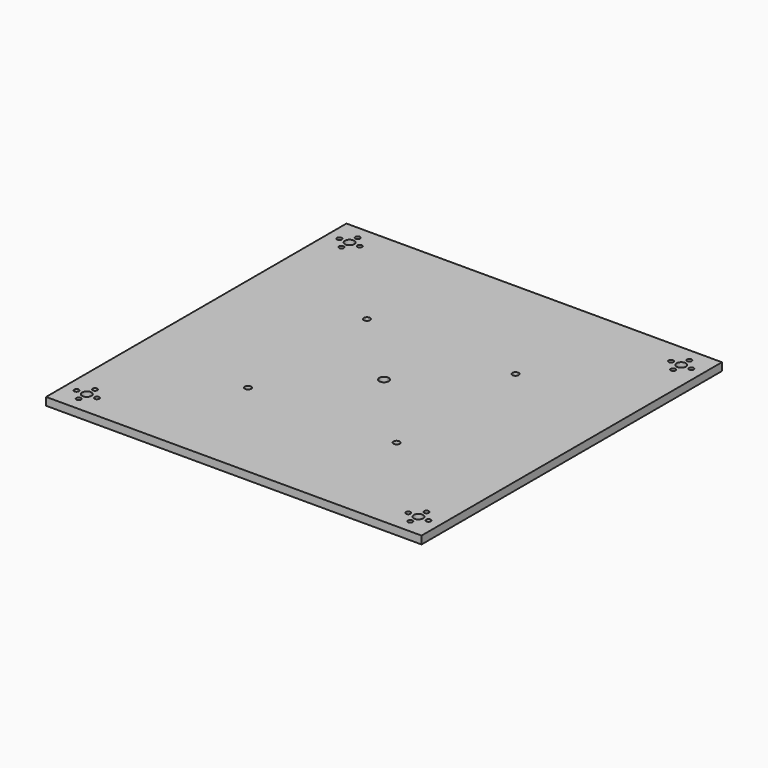
from build123d import *

# Parameters (mm, degrees)
F0_R     = 2.54
F0_R_2   = 1.905
F0_R_3   = 3.81
F1_DEPTH = 6.35


with BuildPart() as f1:
    # F0 (on Top) → F1 (new body)
    with BuildSketch(Plane.XY):
        with BuildLine():
            Line((35.56, 0), (0, 0))
            Line((0, 0), (0, -152.4))
            Line((0, -152.4), (148.59, -152.4))
            ThreePointArc((148.59, -152.4), (149.7059231637, -149.7059231637), (152.4, -148.59))
            Line((152.4, -148.59), (152.4, 0))
            Line((152.4, 0), (41.91, 0))
            Line((41.91, 0), (38.735, 0))
            Line((38.735, 0), (35.56, 0))
        make_face()
        with Locations((92.075, -94.2975)):
            Circle(F0_R, mode=Mode.SUBTRACT)
        with Locations((17.78, -27.305)):
            Circle(F0_R_2, mode=Mode.SUBTRACT)
        with Locations((9.525, -19.05)):
            Circle(F0_R_2, mode=Mode.SUBTRACT)
        with Locations((17.78, -19.05)):
            Circle(F0_R_3, mode=Mode.SUBTRACT)
        with Locations((17.78, -10.795)):
            Circle(F0_R_2, mode=Mode.SUBTRACT)
        with Locations((26.035, -19.05)):
            Circle(F0_R_2, mode=Mode.SUBTRACT)
        with Locations((59.69, -27.305)):
            Circle(F0_R_2, mode=Mode.SUBTRACT)
        with Locations((51.435, -19.05)):
            Circle(F0_R_2, mode=Mode.SUBTRACT)
        with Locations((59.69, -19.05)):
            Circle(F0_R_3, mode=Mode.SUBTRACT)
        with Locations((59.69, -10.795)):
            Circle(F0_R_2, mode=Mode.SUBTRACT)
        with Locations((67.945, -19.05)):
            Circle(F0_R_2, mode=Mode.SUBTRACT)
        with BuildLine():
            Line((152.4, 0), (152.4, -148.59))
            ThreePointArc((152.4, -148.59), (155.0940768363, -149.7059231637), (156.21, -152.4))
            Line((156.21, -152.4), (304.8, -152.4))
            Line((304.8, -152.4), (304.8, 0))
            Line((304.8, 0), (152.4, 0))
        make_face()
        with Locations((212.725, -94.2975)):
            Circle(F0_R, mode=Mode.SUBTRACT)
        with Locations((245.11, -27.305)):
            Circle(F0_R_2, mode=Mode.SUBTRACT)
        with Locations((236.855, -19.05)):
            Circle(F0_R_2, mode=Mode.SUBTRACT)
        with Locations((245.11, -19.05)):
            Circle(F0_R_3, mode=Mode.SUBTRACT)
        with Locations((245.11, -10.795)):
            Circle(F0_R_2, mode=Mode.SUBTRACT)
        with Locations((253.365, -19.05)):
            Circle(F0_R_2, mode=Mode.SUBTRACT)
        with Locations((287.02, -27.305)):
            Circle(F0_R_2, mode=Mode.SUBTRACT)
        with Locations((278.765, -19.05)):
            Circle(F0_R_2, mode=Mode.SUBTRACT)
        with Locations((287.02, -19.05)):
            Circle(F0_R_3, mode=Mode.SUBTRACT)
        with Locations((295.275, -19.05)):
            Circle(F0_R_2, mode=Mode.SUBTRACT)
        with Locations((287.02, -10.795)):
            Circle(F0_R_2, mode=Mode.SUBTRACT)
        with BuildLine():
            Line((152.4, 0), (152.4, -148.59))
            ThreePointArc((152.4, -148.59), (155.0940768363, -149.7059231637), (156.21, -152.4))
            Line((156.21, -152.4), (304.8, -152.4))
            Line((304.8, -152.4), (304.8, 0))
            Line((304.8, 0), (152.4, 0))
        make_face()
        with Locations((212.725, -94.2975)):
            Circle(F0_R, mode=Mode.SUBTRACT)
        with Locations((245.11, -27.305)):
            Circle(F0_R_2, mode=Mode.SUBTRACT)
        with Locations((236.855, -19.05)):
            Circle(F0_R_2, mode=Mode.SUBTRACT)
        with Locations((245.11, -19.05)):
            Circle(F0_R_3, mode=Mode.SUBTRACT)
        with Locations((245.11, -10.795)):
            Circle(F0_R_2, mode=Mode.SUBTRACT)
        with Locations((253.365, -19.05)):
            Circle(F0_R_2, mode=Mode.SUBTRACT)
        with Locations((287.02, -27.305)):
            Circle(F0_R_2, mode=Mode.SUBTRACT)
        with Locations((278.765, -19.05)):
            Circle(F0_R_2, mode=Mode.SUBTRACT)
        with Locations((287.02, -19.05)):
            Circle(F0_R_3, mode=Mode.SUBTRACT)
        with Locations((295.275, -19.05)):
            Circle(F0_R_2, mode=Mode.SUBTRACT)
        with Locations((287.02, -10.795)):
            Circle(F0_R_2, mode=Mode.SUBTRACT)
        with BuildLine():
            Line((148.59, -152.4), (0, -152.4))
            Line((0, -152.4), (0, -304.8))
            Line((0, -304.8), (152.4, -304.8))
            Line((152.4, -304.8), (152.4, -156.21))
            ThreePointArc((152.4, -156.21), (149.7059231637, -155.0940768363), (148.59, -152.4))
        make_face()
        with Locations((17.78, -294.005)):
            Circle(F0_R_2, mode=Mode.SUBTRACT)
        with Locations((9.525, -285.75)):
            Circle(F0_R_2, mode=Mode.SUBTRACT)
        with Locations((17.78, -285.75)):
            Circle(F0_R_3, mode=Mode.SUBTRACT)
        with Locations((17.78, -277.495)):
            Circle(F0_R_2, mode=Mode.SUBTRACT)
        with Locations((26.035, -285.75)):
            Circle(F0_R_2, mode=Mode.SUBTRACT)
        with Locations((59.69, -294.005)):
            Circle(F0_R_2, mode=Mode.SUBTRACT)
        with Locations((51.435, -285.75)):
            Circle(F0_R_2, mode=Mode.SUBTRACT)
        with Locations((59.69, -285.75)):
            Circle(F0_R_3, mode=Mode.SUBTRACT)
        with Locations((59.69, -277.495)):
            Circle(F0_R_2, mode=Mode.SUBTRACT)
        with Locations((67.945, -285.75)):
            Circle(F0_R_2, mode=Mode.SUBTRACT)
        with Locations((92.075, -214.9475)):
            Circle(F0_R, mode=Mode.SUBTRACT)
        with BuildLine():
            Line((152.4, -156.21), (152.4, -304.8))
            Line((152.4, -304.8), (304.8, -304.8))
            Line((304.8, -304.8), (304.8, -152.4))
            Line((304.8, -152.4), (156.21, -152.4))
            ThreePointArc((156.21, -152.4), (155.0940768363, -155.0940768363), (152.4, -156.21))
        make_face()
        with Locations((245.11, -294.005)):
            Circle(F0_R_2, mode=Mode.SUBTRACT)
        with Locations((236.855, -285.75)):
            Circle(F0_R_2, mode=Mode.SUBTRACT)
        with Locations((245.11, -285.75)):
            Circle(F0_R_3, mode=Mode.SUBTRACT)
        with Locations((245.11, -277.495)):
            Circle(F0_R_2, mode=Mode.SUBTRACT)
        with Locations((253.365, -285.75)):
            Circle(F0_R_2, mode=Mode.SUBTRACT)
        with Locations((287.02, -294.005)):
            Circle(F0_R_2, mode=Mode.SUBTRACT)
        with Locations((278.765, -285.75)):
            Circle(F0_R_2, mode=Mode.SUBTRACT)
        with Locations((287.02, -285.75)):
            Circle(F0_R_3, mode=Mode.SUBTRACT)
        with Locations((295.275, -285.75)):
            Circle(F0_R_2, mode=Mode.SUBTRACT)
        with Locations((287.02, -277.495)):
            Circle(F0_R_2, mode=Mode.SUBTRACT)
        with Locations((212.725, -214.9475)):
            Circle(F0_R, mode=Mode.SUBTRACT)
        with Locations((59.69, -285.75)):
            Circle(F0_R_3)
        with Locations((245.11, -285.75)):
            Circle(F0_R_3)
        with Locations((245.11, -19.05)):
            Circle(F0_R_3)
        with Locations((59.69, -19.05)):
            Circle(F0_R_3)
        with Locations((59.69, -294.005)):
            Circle(F0_R_2)
        with Locations((67.945, -285.75)):
            Circle(F0_R_2)
        with Locations((59.69, -277.495)):
            Circle(F0_R_2)
        with Locations((51.435, -285.75)):
            Circle(F0_R_2)
        with Locations((245.11, -277.495)):
            Circle(F0_R_2)
        with Locations((236.855, -285.75)):
            Circle(F0_R_2)
        with Locations((245.11, -294.005)):
            Circle(F0_R_2)
        with Locations((253.365, -285.75)):
            Circle(F0_R_2)
        with Locations((253.365, -19.05)):
            Circle(F0_R_2)
        with Locations((245.11, -10.795)):
            Circle(F0_R_2)
        with Locations((245.11, -27.305)):
            Circle(F0_R_2)
        with Locations((236.855, -19.05)):
            Circle(F0_R_2)
        with Locations((59.69, -10.795)):
            Circle(F0_R_2)
        with Locations((67.945, -19.05)):
            Circle(F0_R_2)
        with Locations((59.69, -27.305)):
            Circle(F0_R_2)
        with Locations((51.435, -19.05)):
            Circle(F0_R_2)
    extrude(amount=F1_DEPTH)


solid = f1.part
